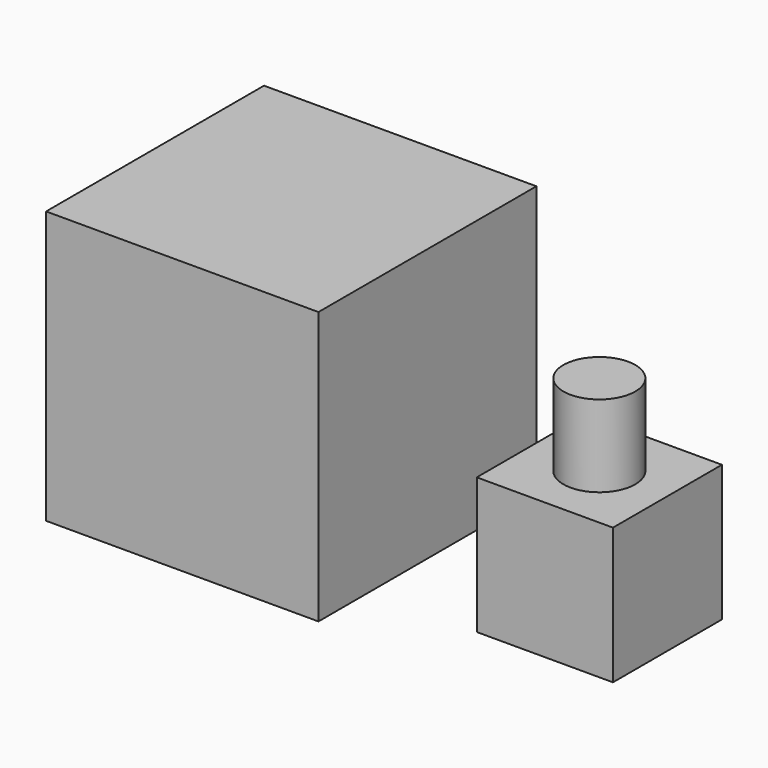
from build123d import *

# Parameters (mm, degrees)
F0_W     = 100
F0_H     = 100
F1_DEPTH = 100
F2_W     = 50
F2_H     = 50
F3_DEPTH = 50
F4_R     = 13.198437
F5_DEPTH = 30


with BuildPart() as f1:
    # F0 (on Top) → F1 (new body)
    with BuildSketch(Plane.XY):
        with Locations((-13.490276, -4.6203)):
            Rectangle(F0_W, F0_H)
    extrude(amount=F1_DEPTH)


with BuildPart() as f3:
    # F2 (on Top) → F3 (new body)
    with BuildSketch(Plane.XY):
        with Locations((101.051537, -6.399972)):
            Rectangle(F2_W, F2_H)
    extrude(amount=F3_DEPTH)

    # F4 (on face) → F5 (join)
    with BuildSketch(Plane.XY.offset(50)):
        with Locations((101.051537, -6.399972)):
            Circle(F4_R)
    extrude(amount=F5_DEPTH)


solid = Compound([f1.part, f3.part])
